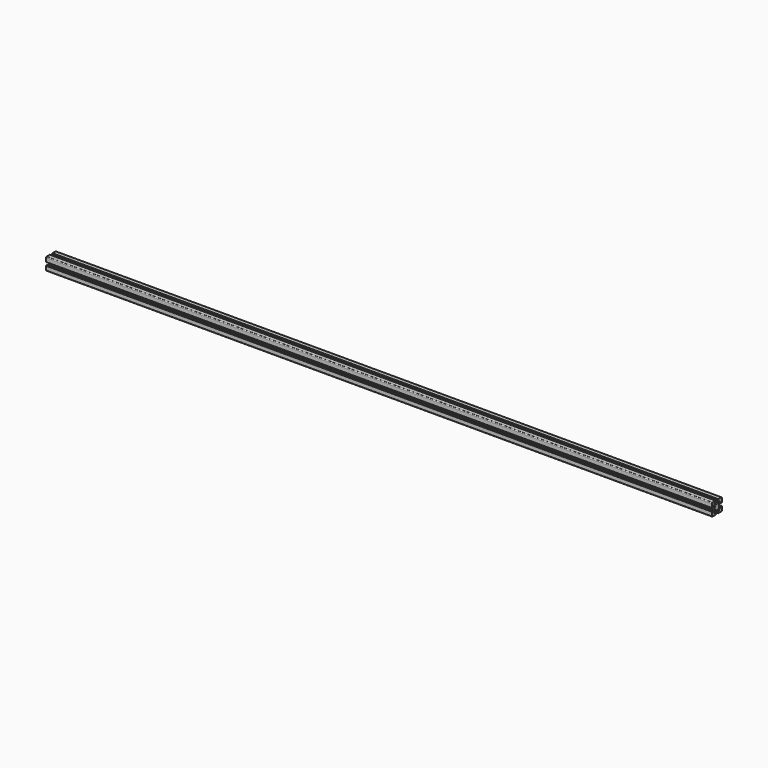
from build123d import *

# Parameters (mm, degrees)
F1_DEPTH = 2393.95


with BuildPart() as f1:
    # F0 (on Right) → F1 (new body)
    with BuildSketch(Plane.YZ):
        with BuildLine():
            Line((-20.088481, -9.788837), (-20.088481, -10.288837))
            Line((-20.088481, -10.288837), (-21.28859, -10.288837))
            ThreePointArc((-21.28859, -10.288837), (-21.500722, -10.376705), (-21.58859, -10.588837))
            Line((-21.58859, -10.588837), (-21.58859, -23.988949))
            ThreePointArc((-21.58859, -23.988949), (-20.70991, -26.11027), (-18.58859, -26.988949))
            Line((-18.58859, -26.988949), (-5.188544, -26.988949))
            ThreePointArc((-5.188544, -26.988949), (-4.976411, -26.901081), (-4.888544, -26.688949))
            Line((-4.888544, -26.688949), (-4.888544, -25.488841))
            Line((-4.888544, -25.488841), (-4.388544, -25.488841))
            ThreePointArc((-4.388544, -25.488841), (-4.176411, -25.400973), (-4.088544, -25.188841))
            Line((-4.088544, -25.188841), (-4.088544, -21.288841))
            ThreePointArc((-4.088544, -21.288841), (-4.176411, -21.076709), (-4.388544, -20.988841))
            Line((-4.388544, -20.988841), (-9.138663, -20.988841))
            Line((-9.138663, -20.988841), (-9.138663, -16.881665))
            Line((-9.138663, -16.881665), (-6.245729, -13.988731))
            Line((-6.245729, -13.988731), (-2.211433, -13.988731))
            ThreePointArc((-2.211433, -13.988731), (-0.669869, -14.363044), (0.91149, -14.48887))
            Line((0.91149, -14.48887), (0.91149, -4.48887))
            Line((0.91149, -4.48887), (-9.08851, -4.48887))
            ThreePointArc((-9.08851, -4.48887), (-8.962684, -6.070229), (-8.588371, -7.611793))
            Line((-8.588371, -7.611793), (-8.588371, -11.646022))
            Line((-8.588371, -11.646022), (-11.481305, -14.538956))
            Line((-11.481305, -14.538956), (-15.588481, -14.538956))
            Line((-15.588481, -14.538956), (-15.588481, -9.788837))
            ThreePointArc((-15.588481, -9.788837), (-15.676349, -9.576705), (-15.888481, -9.488837))
            Line((-15.888481, -9.488837), (-19.788481, -9.488837))
            ThreePointArc((-19.788481, -9.488837), (-20.000613, -9.576705), (-20.088481, -9.788837))
        make_face()
        with BuildLine():
            ThreePointArc((-8.588371, -1.365947), (-8.962684, -2.907511), (-9.08851, -4.48887))
            Line((-9.08851, -4.48887), (0.91149, -4.48887))
            Line((0.91149, -4.48887), (0.91149, 5.51113))
            ThreePointArc((0.91149, 5.51113), (-0.669869, 5.385303), (-2.211433, 5.010991))
            Line((-2.211433, 5.010991), (-6.245729, 5.010991))
            Line((-6.245729, 5.010991), (-9.138663, 7.903925))
            Line((-9.138663, 7.903925), (-9.138663, 12.011101))
            Line((-9.138663, 12.011101), (-4.388544, 12.011101))
            ThreePointArc((-4.388544, 12.011101), (-4.176411, 12.098969), (-4.088544, 12.311101))
            Line((-4.088544, 12.311101), (-4.088544, 16.211101))
            ThreePointArc((-4.088544, 16.211101), (-4.176411, 16.423233), (-4.388544, 16.511101))
            Line((-4.388544, 16.511101), (-4.888544, 16.511101))
            Line((-4.888544, 16.511101), (-4.888544, 17.711209))
            ThreePointArc((-4.888544, 17.711209), (-4.976411, 17.923341), (-5.188544, 18.011209))
            Line((-5.188544, 18.011209), (-18.58859, 18.011209))
            ThreePointArc((-18.58859, 18.011209), (-20.70991, 17.13253), (-21.58859, 15.011209))
            Line((-21.58859, 15.011209), (-21.58859, 1.611097))
            ThreePointArc((-21.58859, 1.611097), (-21.500722, 1.398965), (-21.28859, 1.311097))
            Line((-21.28859, 1.311097), (-20.088481, 1.311097))
            Line((-20.088481, 1.311097), (-20.088481, 0.811097))
            ThreePointArc((-20.088481, 0.811097), (-20.000613, 0.598965), (-19.788481, 0.511097))
            Line((-19.788481, 0.511097), (-15.888481, 0.511097))
            ThreePointArc((-15.888481, 0.511097), (-15.676349, 0.598965), (-15.588481, 0.811097))
            Line((-15.588481, 0.811097), (-15.588481, 5.561216))
            Line((-15.588481, 5.561216), (-11.481305, 5.561216))
            Line((-11.481305, 5.561216), (-8.588371, 2.668282))
            Line((-8.588371, 2.668282), (-8.588371, -1.365947))
        make_face()
        with BuildLine():
            Line((0.91149, 5.51113), (0.91149, -4.48887))
            Line((0.91149, -4.48887), (10.91149, -4.48887))
            ThreePointArc((10.91149, -4.48887), (10.785663, -2.907511), (10.41135, -1.365947))
            Line((10.41135, -1.365947), (10.41135, 2.668282))
            Line((10.41135, 2.668282), (13.304285, 5.561216))
            Line((13.304285, 5.561216), (14.016842, 5.561216))
            Line((14.016842, 5.561216), (17.41146, 5.561216))
            Line((17.41146, 5.561216), (17.41146, 0.811097))
            ThreePointArc((17.41146, 0.811097), (17.499328, 0.598965), (17.71146, 0.511097))
            Line((17.71146, 0.511097), (21.61146, 0.511097))
            ThreePointArc((21.61146, 0.511097), (21.823593, 0.598965), (21.91146, 0.811097))
            Line((21.91146, 0.811097), (21.91146, 1.311097))
            Line((21.91146, 1.311097), (23.111569, 1.311097))
            ThreePointArc((23.111569, 1.311097), (23.323701, 1.398965), (23.411569, 1.611097))
            Line((23.411569, 1.611097), (23.411569, 15.011209))
            ThreePointArc((23.411569, 15.011209), (22.532889, 17.13253), (20.411569, 18.011209))
            Line((20.411569, 18.011209), (7.011523, 18.011209))
            ThreePointArc((7.011523, 18.011209), (6.799391, 17.923341), (6.711523, 17.711209))
            Line((6.711523, 17.711209), (6.711523, 16.511101))
            Line((6.711523, 16.511101), (6.211523, 16.511101))
            ThreePointArc((6.211523, 16.511101), (5.999391, 16.423233), (5.911523, 16.211101))
            Line((5.911523, 16.211101), (5.911523, 12.311101))
            ThreePointArc((5.911523, 12.311101), (5.999391, 12.098969), (6.211523, 12.011101))
            Line((6.211523, 12.011101), (10.961642, 12.011101))
            Line((10.961642, 12.011101), (10.961642, 7.903925))
            Line((10.961642, 7.903925), (8.068708, 5.010991))
            Line((8.068708, 5.010991), (4.034413, 5.010991))
            ThreePointArc((4.034413, 5.010991), (2.492849, 5.385303), (0.91149, 5.51113))
        make_face()
        with BuildLine():
            Line((10.91149, -4.48887), (0.91149, -4.48887))
            Line((0.91149, -4.48887), (0.91149, -14.48887))
            ThreePointArc((0.91149, -14.48887), (2.492849, -14.363044), (4.034413, -13.988731))
            Line((4.034413, -13.988731), (8.068708, -13.988731))
            Line((8.068708, -13.988731), (10.961642, -16.881665))
            Line((10.961642, -16.881665), (10.961642, -20.988841))
            Line((10.961642, -20.988841), (6.211523, -20.988841))
            ThreePointArc((6.211523, -20.988841), (5.999391, -21.076709), (5.911523, -21.288841))
            Line((5.911523, -21.288841), (5.911523, -25.188841))
            ThreePointArc((5.911523, -25.188841), (5.999391, -25.400973), (6.211523, -25.488841))
            Line((6.211523, -25.488841), (6.711523, -25.488841))
            Line((6.711523, -25.488841), (6.711523, -26.688949))
            ThreePointArc((6.711523, -26.688949), (6.799391, -26.901081), (7.011523, -26.988949))
            Line((7.011523, -26.988949), (20.411569, -26.988949))
            ThreePointArc((20.411569, -26.988949), (22.532889, -26.11027), (23.411569, -23.988949))
            Line((23.411569, -23.988949), (23.411569, -10.588837))
            ThreePointArc((23.411569, -10.588837), (23.323701, -10.376705), (23.111569, -10.288837))
            Line((23.111569, -10.288837), (21.91146, -10.288837))
            Line((21.91146, -10.288837), (21.91146, -9.788837))
            ThreePointArc((21.91146, -9.788837), (21.823593, -9.576705), (21.61146, -9.488837))
            Line((21.61146, -9.488837), (17.71146, -9.488837))
            ThreePointArc((17.71146, -9.488837), (17.499328, -9.576705), (17.41146, -9.788837))
            Line((17.41146, -9.788837), (17.41146, -14.538956))
            Line((17.41146, -14.538956), (13.304285, -14.538956))
            Line((13.304285, -14.538956), (10.41135, -11.646022))
            Line((10.41135, -11.646022), (10.41135, -7.611793))
            ThreePointArc((10.41135, -7.611793), (10.785663, -6.070229), (10.91149, -4.48887))
        make_face()
    extrude(amount=F1_DEPTH)


solid = f1.part
